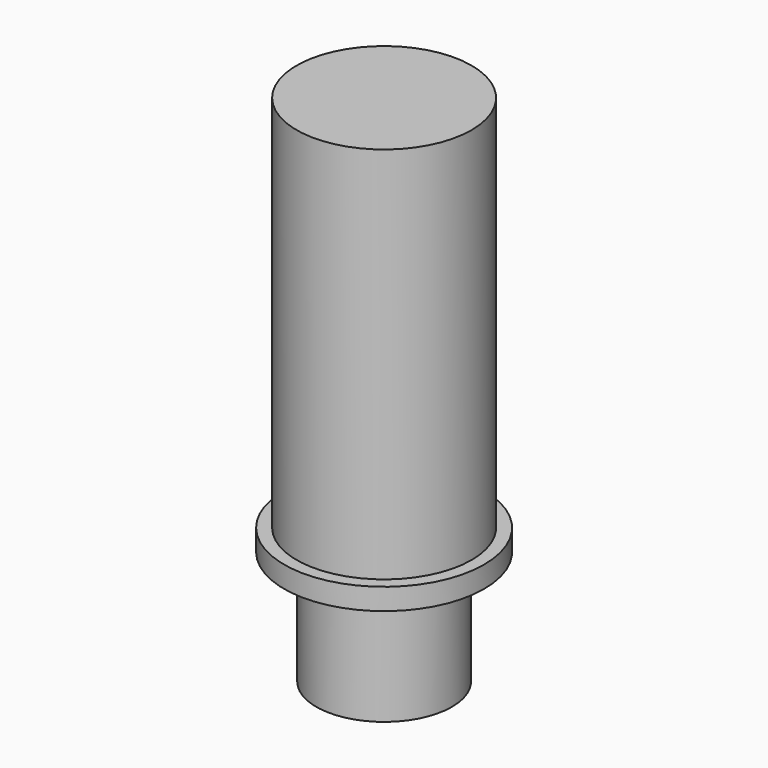
from build123d import *

# Parameters (mm, degrees)
F0_R     = 2.413
F1_DEPTH = 4.064
F2_R     = 3.556
F2_R_2   = 2.413
F3_DEPTH = 0.762
F4_R     = 3.1115
F5_DEPTH = 13.462


with BuildPart() as f1:
    # F0 (on Top) → F1 (new body)
    with BuildSketch(Plane.XY):
        with Locations((-47.52272, 37.3201)):
            Circle(F0_R)
    extrude(amount=F1_DEPTH)

    # F2 (on face) → F3 (join)
    with BuildSketch(Plane.XY.offset(4.064)):
        with Locations((-47.52272, 37.3201)):
            Circle(F2_R)
        with Locations((-47.52272, 37.3201)):
            Circle(F2_R_2, mode=Mode.SUBTRACT)
        with Locations((-47.52272, 37.3201)):
            Circle(F2_R_2)
    extrude(amount=F3_DEPTH)

    # F4 (on face) → F5 (join)
    with BuildSketch(Plane.XY.offset(4.826)):
        with Locations((-47.52272, 37.3201)):
            Circle(F4_R)
    extrude(amount=F5_DEPTH)


solid = f1.part
